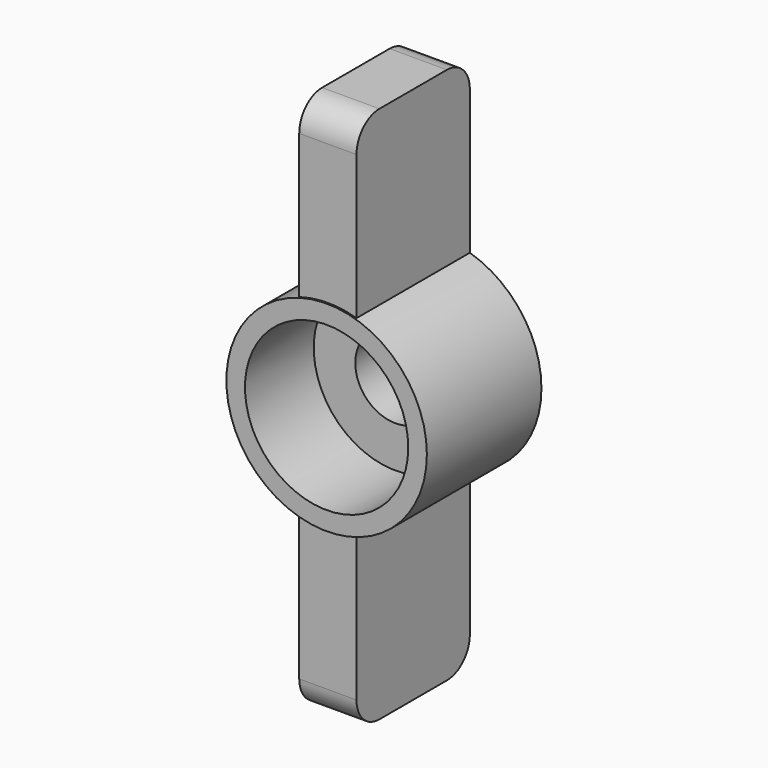
from build123d import *

# Parameters (mm, degrees)
F0_R     = 3.5
F0_R_2   = 1.4
F1_DEPTH = 5
F4_DEPTH = 1
F2_R     = 2.85
F5_DEPTH = 3
F6_R     = 1


with BuildPart() as f1:
    # F0 (on Front) → F1 (new body)
    with BuildSketch(Plane.XZ):
        Circle(F0_R)
        Circle(F0_R_2, mode=Mode.SUBTRACT)
    extrude(amount=F1_DEPTH)

    # F3 (on Right) → F4 (join, symmetric)
    with BuildSketch(Plane.YZ):
        Polygon((0, -3.5), (0, -1.75), (-4.945105, -1.75), (-4.945105, -3.382278), (-4.945105, -3.5), (-4.945105, -9.382278), (0, -9.382278), align=None)
        Polygon((-4.945105, 1.75), (0, 1.75), (0, 3.5), (0, 9.382278), (-4.945105, 9.382278), (-4.945105, 3.5), (-4.945105, 3.382278), align=None)
    extrude(amount=F4_DEPTH, both=True)

    # F2 (on face) → F5 (cut)
    with BuildSketch(Plane.XZ.offset(5)):
        Circle(F2_R)
    extrude(amount=-F5_DEPTH, mode=Mode.SUBTRACT)

    # F6
    f6_edges = [f1.edges().sort_by_distance(p)[0] for p in [
        (0, -4.945105, 9.382278),
        (0, 0, 9.382278),
        (0, -4.945105, -9.382278),
        (0, 0, -9.382278),
    ]]
    fillet(f6_edges, radius=F6_R)


solid = f1.part
